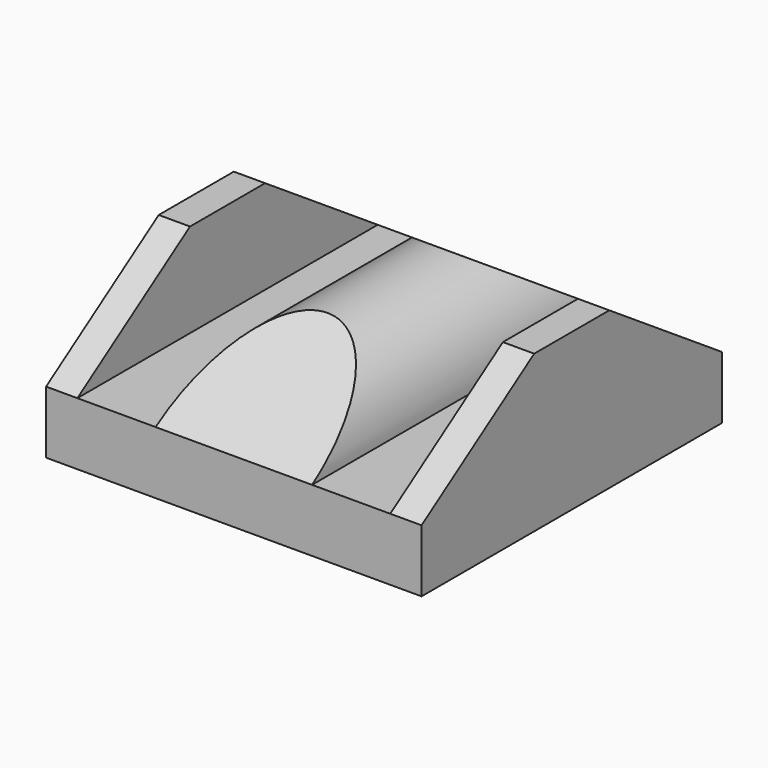
from build123d import *

# Parameters (mm, degrees)
F1_DEPTH      = 76.2
F3_DEPTH      = 38.101
F3_DEPTH_BACK = 38.101


with BuildPart() as f1:
    # F0 (on Right) → F1 (new body)
    with BuildSketch(Plane.YZ):
        Polygon((-38.1, 12.7), (-38.1, 0), (38.1, 0), (38.1, 12.7), (9.525, 31.75), (-9.525, 31.75), align=None)
    extrude(amount=F1_DEPTH)

    # F2 (on Front) → F3 (cut, two sides)
    with BuildSketch(Plane.XZ) as f3_sk:
        with BuildLine():
            Line((69.85, 31.75), (6.35, 31.75))
            Line((6.35, 31.75), (6.35, 12.7))
            Line((6.35, 12.7), (22.225, 12.7))
            ThreePointArc((22.225, 12.7), (38.1, 28.575), (53.975, 12.7))
            Line((53.975, 12.7), (69.85, 12.7))
            Line((69.85, 12.7), (69.85, 31.75))
        make_face()
    extrude(amount=-F3_DEPTH, mode=Mode.SUBTRACT)
    extrude(f3_sk.sketch, amount=F3_DEPTH_BACK, mode=Mode.SUBTRACT)


solid = f1.part
